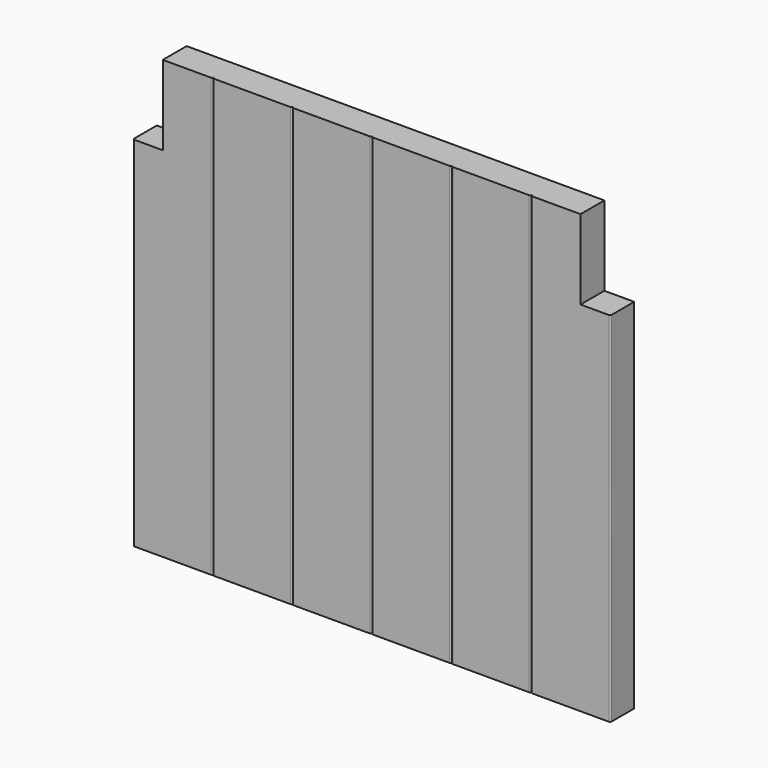
from build123d import *

# Parameters (mm, degrees)
F1_DEPTH = 279.4
F2_W     = 508
F2_H     = 426.719844
F2_H_2   = 111.069546
F3_DEPTH = 304.8
F4_W     = 19.05
F4_H     = 50.8
F5_DEPTH = 12.7


with BuildPart() as f1:
    # F0 (on Top) → F1 (new body)
    with BuildSketch(Plane.XY):
        with BuildLine():
            Line((458.216, -9.525), (533.4, -9.525))
            Line((533.4, -9.525), (533.4, 9.525))
            Line((533.4, 9.525), (-533.4, 9.525))
            Line((-533.4, 9.525), (-533.4, -9.525))
            Line((-533.4, -9.525), (-509.016, -9.525))
            ThreePointArc((-509.016, -9.525), (-508.29758, -9.22742), (-508, -8.509))
            ThreePointArc((-508, -8.509), (-507.70242, -9.22742), (-506.984, -9.525))
            Line((-506.984, -9.525), (-458.216, -9.525))
            ThreePointArc((-458.216, -9.525), (-457.49758, -9.22742), (-457.2, -8.509))
            ThreePointArc((-457.2, -8.509), (-456.90242, -9.22742), (-456.184, -9.525))
            Line((-456.184, -9.525), (-407.416, -9.525))
            ThreePointArc((-407.416, -9.525), (-406.69758, -9.22742), (-406.4, -8.509))
            ThreePointArc((-406.4, -8.509), (-406.10242, -9.22742), (-405.384, -9.525))
            Line((-405.384, -9.525), (-356.616, -9.525))
            ThreePointArc((-356.616, -9.525), (-355.89758, -9.22742), (-355.6, -8.509))
            ThreePointArc((-355.6, -8.509), (-355.30242, -9.22742), (-354.584, -9.525))
            Line((-354.584, -9.525), (-305.816, -9.525))
            ThreePointArc((-305.816, -9.525), (-305.09758, -9.22742), (-304.8, -8.509))
            ThreePointArc((-304.8, -8.509), (-304.50242, -9.22742), (-303.784, -9.525))
            Line((-303.784, -9.525), (-255.016, -9.525))
            ThreePointArc((-255.016, -9.525), (-254.29758, -9.22742), (-254, -8.509))
            ThreePointArc((-254, -8.509), (-253.70242, -9.22742), (-252.984, -9.525))
            Line((-252.984, -9.525), (-204.216, -9.525))
            ThreePointArc((-204.216, -9.525), (-203.49758, -9.22742), (-203.2, -8.509))
            ThreePointArc((-203.2, -8.509), (-202.90242, -9.22742), (-202.184, -9.525))
            Line((-202.184, -9.525), (-153.416, -9.525))
            ThreePointArc((-153.416, -9.525), (-152.69758, -9.22742), (-152.4, -8.509))
            ThreePointArc((-152.4, -8.509), (-152.10242, -9.22742), (-151.384, -9.525))
            Line((-151.384, -9.525), (-102.616, -9.525))
            ThreePointArc((-102.616, -9.525), (-101.89758, -9.22742), (-101.6, -8.509))
            ThreePointArc((-101.6, -8.509), (-101.30242, -9.22742), (-100.584, -9.525))
            Line((-100.584, -9.525), (-51.816, -9.525))
            ThreePointArc((-51.816, -9.525), (-51.09758, -9.22742), (-50.8, -8.509))
            ThreePointArc((-50.8, -8.509), (-50.50242, -9.22742), (-49.784, -9.525))
            Line((-49.784, -9.525), (-1.016, -9.525))
            ThreePointArc((-1.016, -9.525), (-0.29758, -9.22742), (0, -8.509))
            ThreePointArc((0, -8.509), (0.29758, -9.22742), (1.016, -9.525))
            Line((1.016, -9.525), (49.784, -9.525))
            ThreePointArc((49.784, -9.525), (50.50242, -9.22742), (50.8, -8.509))
            ThreePointArc((50.8, -8.509), (51.09758, -9.22742), (51.816, -9.525))
            Line((51.816, -9.525), (100.584, -9.525))
            ThreePointArc((100.584, -9.525), (101.30242, -9.22742), (101.6, -8.509))
            ThreePointArc((101.6, -8.509), (101.89758, -9.22742), (102.616, -9.525))
            Line((102.616, -9.525), (151.384, -9.525))
            ThreePointArc((151.384, -9.525), (152.10242, -9.22742), (152.4, -8.509))
            ThreePointArc((152.4, -8.509), (152.69758, -9.22742), (153.416, -9.525))
            Line((153.416, -9.525), (202.184, -9.525))
            ThreePointArc((202.184, -9.525), (202.90242, -9.22742), (203.2, -8.509))
            ThreePointArc((203.2, -8.509), (203.49758, -9.22742), (204.216, -9.525))
            Line((204.216, -9.525), (252.984, -9.525))
            ThreePointArc((252.984, -9.525), (253.70242, -9.22742), (254, -8.509))
            ThreePointArc((254, -8.509), (254.29758, -9.22742), (255.016, -9.525))
            Line((255.016, -9.525), (303.784, -9.525))
            ThreePointArc((303.784, -9.525), (304.50242, -9.22742), (304.8, -8.509))
            ThreePointArc((304.8, -8.509), (305.09758, -9.22742), (305.816, -9.525))
            Line((305.816, -9.525), (354.584, -9.525))
            ThreePointArc((354.584, -9.525), (355.30242, -9.22742), (355.6, -8.509))
            ThreePointArc((355.6, -8.509), (355.89758, -9.22742), (356.616, -9.525))
            Line((356.616, -9.525), (405.384, -9.525))
            ThreePointArc((405.384, -9.525), (406.10242, -9.22742), (406.4, -8.509))
            ThreePointArc((406.4, -8.509), (406.69758, -9.22742), (407.416, -9.525))
            Line((407.416, -9.525), (456.184, -9.525))
            ThreePointArc((456.184, -9.525), (456.90242, -9.22742), (457.2, -8.509))
            ThreePointArc((457.2, -8.509), (457.49758, -9.22742), (458.216, -9.525))
        make_face()
        with BuildLine():
            ThreePointArc((-508, -8.509), (-508.29758, -9.22742), (-509.016, -9.525))
            Line((-509.016, -9.525), (-506.984, -9.525))
            ThreePointArc((-506.984, -9.525), (-507.70242, -9.22742), (-508, -8.509))
        make_face()
    extrude(amount=F1_DEPTH)

    # F2 (on Top) → F3 (cut, symmetric)
    with BuildSketch(Plane.XY):
        with Locations((-406.4, 0)):
            Rectangle(F2_W, F2_H)
        with Locations((406.4, 0)):
            Rectangle(F2_W, F2_H_2)
    extrude(amount=F3_DEPTH, both=True, mode=Mode.SUBTRACT)

    # F4 (on Front) → F5 (cut, symmetric)
    with BuildSketch(Plane.XZ):
        with Locations((142.875, 254)):
            Rectangle(F4_W, F4_H)
        with Locations((-142.875, 254)):
            Rectangle(F4_W, F4_H)
    extrude(amount=F5_DEPTH, both=True, mode=Mode.SUBTRACT)


solid = f1.part
